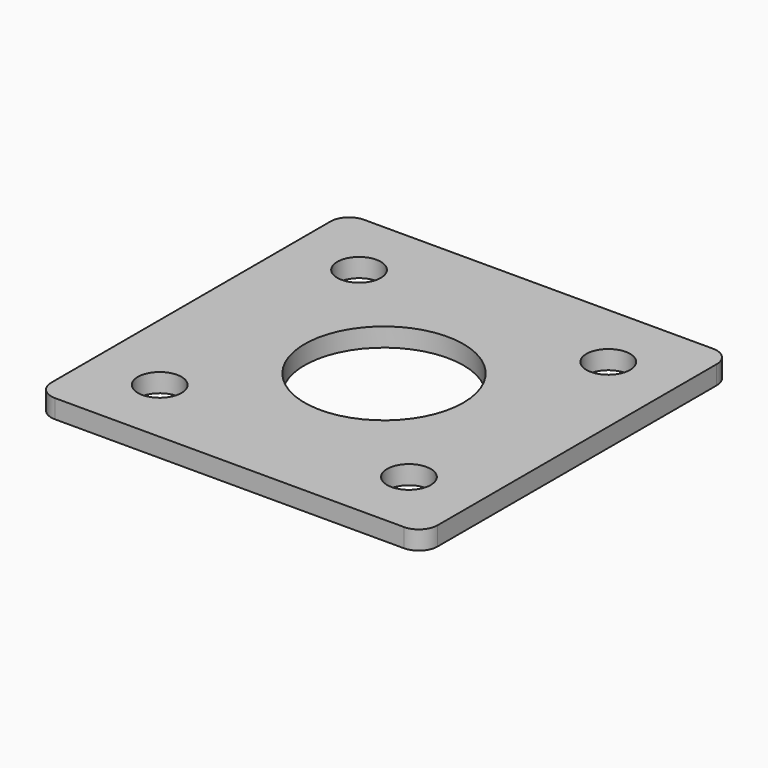
from build123d import *

# Parameters (mm, degrees)
F0_W     = 62
F0_H     = 62
F1_DEPTH = 3
F2_R     = 3.5
F2_R_2   = 12.75
F3_DEPTH = 25
F4_R     = 3


with BuildPart() as f1:
    # F0 (on Top) → F1 (new body)
    with BuildSketch(Plane.XY):
        Rectangle(F0_W, F0_H)
    extrude(amount=F1_DEPTH)

    # F2 (on face) → F3 (cut)
    with BuildSketch(Plane.XY.offset(3)):
        with Locations((-20, 20)):
            Circle(F2_R)
        with Locations((20, 20)):
            Circle(F2_R)
        with Locations((20, -20)):
            Circle(F2_R)
        with Locations((-20, -20)):
            Circle(F2_R)
        Circle(F2_R_2)
    extrude(amount=-F3_DEPTH, mode=Mode.SUBTRACT)

    # F4
    f4_edges = [f1.edges().sort_by_distance(p)[0] for p in [
        (-31, 31, 1.5),
        (31, 31, 1.5),
        (-31, -31, 1.5),
        (31, -31, 1.5),
    ]]
    fillet(f4_edges, radius=F4_R)


solid = f1.part
